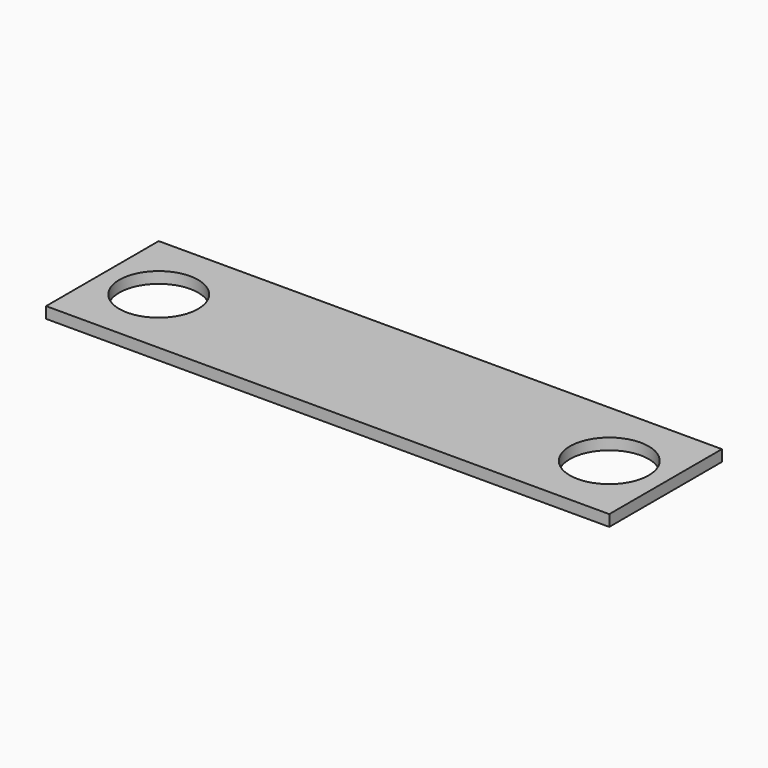
from build123d import *

# Parameters (mm, degrees)
F0_R     = 7
F1_DEPTH = 2


with BuildPart() as f1:
    # F0 (on Top) → F1 (new body)
    with BuildSketch(Plane.XY):
        with Locations((90, 12.5)):
            Circle(F0_R)
        with BuildLine():
            ThreePointArc((17, 12.5), (10, 19.5), (3, 12.5))
            ThreePointArc((3, 12.5), (10, 5.5), (17, 12.5))
        make_face()
        Polygon((0, 12.5), (0, 0), (100, 0), (100, 12.5), (100, 25), (0, 25), align=None)
        with BuildLine():
            ThreePointArc((17, 12.5), (10, 5.5), (3, 12.5))
            ThreePointArc((3, 12.5), (10, 19.5), (17, 12.5))
        make_face(mode=Mode.SUBTRACT)
        with Locations((90, 12.5)):
            Circle(F0_R, mode=Mode.SUBTRACT)
    extrude(amount=F1_DEPTH)


solid = f1.part
